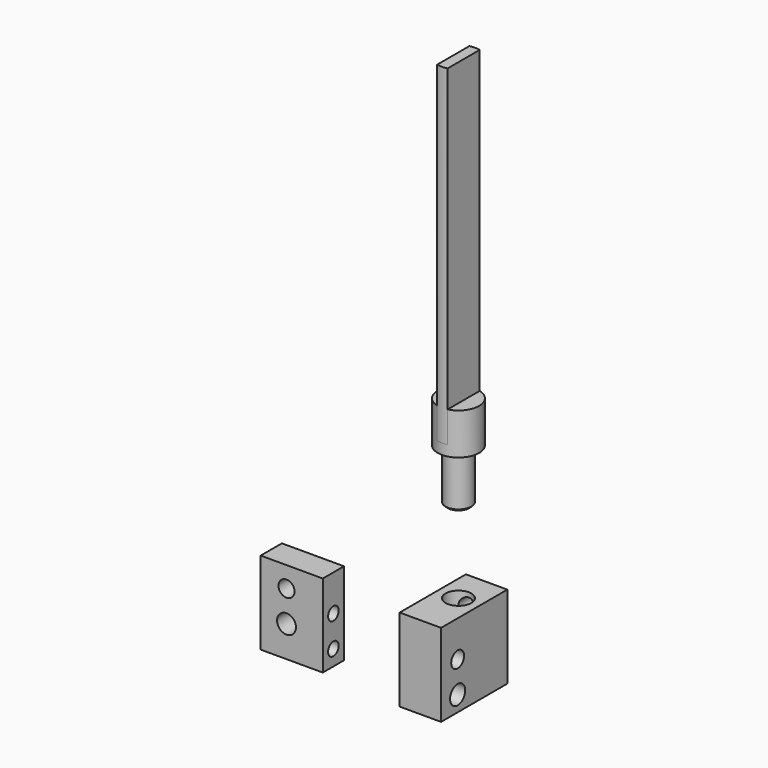
from build123d import *

# Parameters (mm, degrees)
F0_W      = 19.05
F0_H      = 25.4
F1_DEPTH  = 8.128
F3_D      = 4.9149
F4_D      = 5.7912
F6_D      = 4.0386
F6_DEPTH  = 7.62
F6_TIP    = 1.213317848
F8_W      = 25.4
F8_H      = 25.4
F9_DEPTH  = 12.7
F11_D     = 4.9149
F12_D     = 5.7912
F13_R     = 3.9624
F14_DEPTH = 15.875
F16_D     = 5.1054
F16_DEPTH = 7.62
F16_TIP   = 1.5338169022
F18_R     = 3.9624
F19_DEPTH = 15.875
F20_R     = 6.35
F20_R_2   = 3.9624
F21_DEPTH = 12.7
F23_DEPTH = 9.525
F24_DEPTH = 101.6
F25_SIZE  = 0.635


with BuildPart() as f1:
    # F0 (on Front) → F1 (new body)
    with BuildSketch(Plane.XZ):
        Rectangle(F0_W, F0_H)
    extrude(amount=F1_DEPTH)

    # F3 (through all)
    with Locations(Plane(origin=(0, 0, 0), x_dir=(-1, 0, 0), z_dir=(0, 1, 0))):
        with Locations((1.6002, 6.35)):
            Hole(F3_D / 2)

    # F4 (through all)
    with Locations(Plane(origin=(0, 0, 0), x_dir=(-1, 0, 0), z_dir=(0, 1, 0))):
        with Locations((1.6002, -3.175)):
            Hole(F4_D / 2)

    # F6
    with Locations(Plane.YZ.offset(9.525)):
        with Locations((-4.064, 1.6002), (-4.064, -7.9248)):
            Hole(F6_D / 2, depth=F6_DEPTH)
            with Locations((0, 0, -(F6_DEPTH + F6_TIP / 2))):  # 118° drill point
                Cone(0, F6_D / 2, F6_TIP, mode=Mode.SUBTRACT)


with BuildPart() as f9:
    # F8 (on offset) → F9 (new body)
    with BuildSketch(Plane.YZ.offset(34.925)):
        with Locations((2.286, 0)):
            Rectangle(F8_W, F8_H)
    extrude(amount=F9_DEPTH)

    # F11 (through all)
    with Locations(Plane.YZ.offset(47.625)):
        with Locations((-4.064, 1.6002)):
            Hole(F11_D / 2)

    # F12 (through all)
    with Locations(Plane.YZ.offset(47.625)):
        with Locations((-4.064, -7.9248)):
            Hole(F12_D / 2)

    # F13 (on face) → F14 (cut)
    with BuildSketch(Plane.XY.offset(12.7)):
        with Locations((41.275, 4.191)):
            Circle(F13_R)
    extrude(amount=-F14_DEPTH, mode=Mode.SUBTRACT)

    # F16
    with Locations(Plane(origin=(0, 14.986, 0), x_dir=(-1, 0, 0), z_dir=(0, 1, 0))):
        with Locations((-41.275, 8.7376), (-41.275, 1.6002)):
            Hole(F16_D / 2, depth=F16_DEPTH)
            with Locations((0, 0, -(F16_DEPTH + F16_TIP / 2))):  # 118° drill point
                Cone(0, F16_D / 2, F16_TIP, mode=Mode.SUBTRACT)


with BuildPart() as f19:
    # F18 (on offset) → F19 (new body)
    with BuildSketch(Plane.XY.offset(38.1)):
        with Locations((41.275, 4.191)):
            Circle(F18_R)
    extrude(amount=F19_DEPTH)

    # F20 (on face) → F21 (join)
    with BuildSketch(Plane.XY.offset(53.975)):
        with Locations((41.275, 4.191)):
            Circle(F20_R)
        with Locations((41.275, 4.191)):
            Circle(F20_R_2, mode=Mode.SUBTRACT)
        with Locations((41.275, 4.191)):
            Circle(F20_R_2)
    extrude(amount=F21_DEPTH)

    # F22 (on face) → F23 (cut)
    with BuildSketch(Plane.XY.offset(66.675)):
        with BuildLine():
            Line((42.8625, -1.9573610621), (42.8625, 10.3393610621))
            ThreePointArc((42.8625, 10.3393610621), (41.275, 10.541), (39.6875, 10.3393610621))
            Line((39.6875, 10.3393610621), (39.6875, -1.9573610621))
            ThreePointArc((39.6875, -1.9573610621), (41.275, -2.159), (42.8625, -1.9573610621))
        make_face()
    extrude(amount=-F23_DEPTH, mode=Mode.SUBTRACT)


with BuildPart() as f24:
    # F24 (new): a face of the model
    f24_faces = [f19.part.faces().sort_by_distance(p)[0] for p in [
        (41.275, 4.191, 57.15),
    ]]
    extrude(f24_faces, amount=F24_DEPTH)


with BuildPart() as f19_1:
    add(f19.part)

    # F25
    f25_edges = [f19_1.edges().sort_by_distance(p)[0] for p in [
        (37.3126, 4.191, 38.1),
    ]]
    chamfer(f25_edges, length=F25_SIZE)


solid = Compound([f1.part, f9.part, f24.part, f19_1.part])
